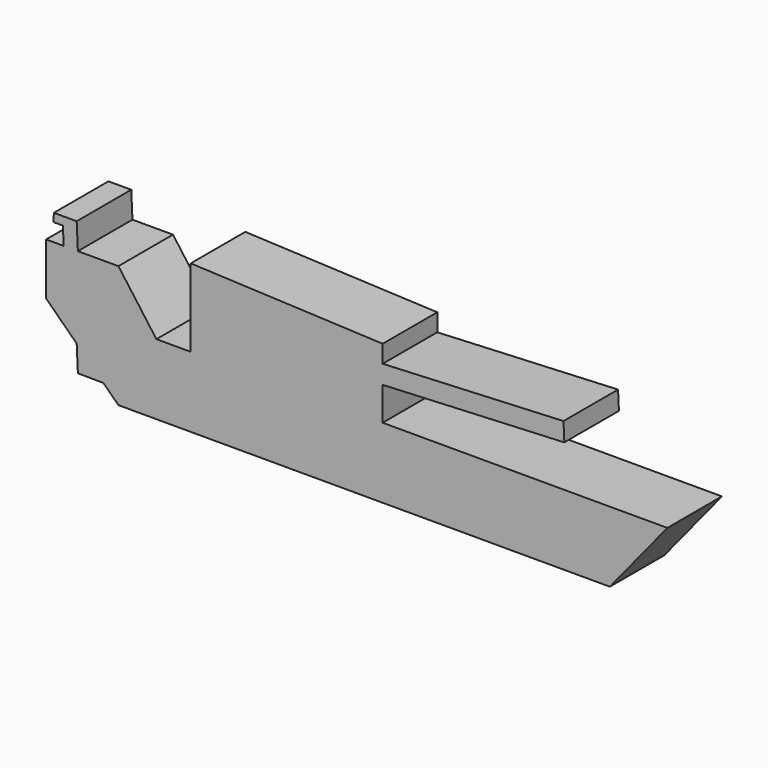
from build123d import *

# Parameters (mm, degrees)
F1_DEPTH = 25.4


with BuildPart() as f1:
    # F0 (on Front) → F1 (new body)
    with BuildSketch(Plane.XZ):
        Polygon((-132.999007, -58.748938), (-127.390862, -64.213283), (55.582464, -64.213283), (76.986894, -37.975598), (-28.999548, -37.975598), (-100.46272, -37.975598), (-113.23633, -37.975598), (-154.319018, -37.975598), (-142.923768, -49.07866), align=None)
        Polygon((-100.46272, -37.975598), (-28.999548, -37.975598), (-28.999548, -25.547221), (-28.999548, -18.642567), (-28.999548, -12.083145), (-100.46272, -8.976051), align=None)
        Polygon((-154.319018, -18.642567), (-154.319018, -37.975598), (-113.23633, -37.975598), (-127.390862, -18.642567), (-142.480188, -18.642567), (-147.759587, -18.642567), align=None)
        Polygon((-148.062329, -12.083145), (-147.759587, -18.642567), (-142.480188, -18.642567), (-142.926335, -8.976051), (-151.422056, -8.976051), (-151.557148, -12.083145), align=None)
        Polygon((-142.480188, -58.689557), (-132.999007, -58.748938), (-142.923768, -49.07866), align=None)
        Polygon((-28.999548, -18.642567), (-28.999548, -25.547221), (38.638831, -22.425449), (38.320832, -15.535472), align=None)
    extrude(amount=F1_DEPTH)


solid = f1.part
